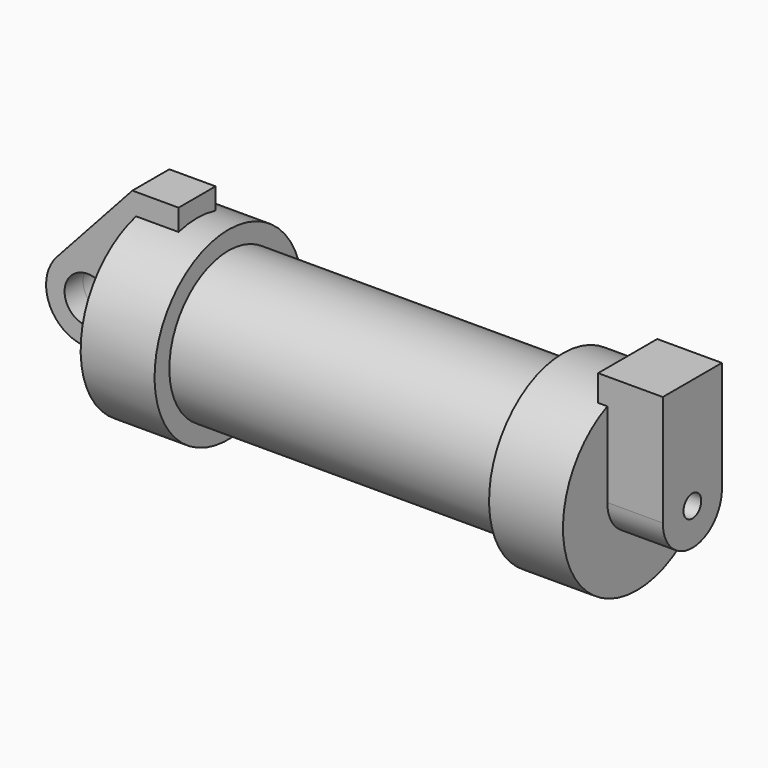
from build123d import *

# Parameters (mm, degrees)
F0_W          = 5.842
F0_H          = 12.7
F0_R          = 3.175
F2_DEPTH      = 3.175
F3_R          = 1.524
F4_DEPTH      = 7.62
F4_DEPTH_BACK = 1.27
F5_DEPTH      = 56.134


with BuildPart() as f1:
    # F0 (on Front) → F1 (revolve)
    with BuildSketch(Plane.XZ):
        Polygon((5.842, 12.7), (5.842, 0), (66.294, 0), (66.294, 12.7), (56.134, 12.7), (56.134, 10.16), (10.16, 10.16), (10.16, 12.7), align=None)
        with Locations((2.921, 6.35)):
            Rectangle(F0_W, F0_H)
    revolve(axis=Axis((33.147, 0, 0), (-1, 0, 0)))

    # F3 (on face) → F4 (join, two sides)
    with BuildSketch(Plane.YZ.offset(66.294)) as f4_sk:
        with BuildLine():
            ThreePointArc((-5.08, 0), (0, 5.08), (5.08, 0))
            Line((5.08, 0), (5.08, 11.6397422652))
            ThreePointArc((5.08, 11.6397422652), (0, 12.7), (-5.08, 11.6397422652))
            Line((-5.08, 11.6397422652), (-5.08, 0))
        make_face()
        with BuildLine():
            ThreePointArc((-5.08, 11.6397422652), (0, 12.7), (5.08, 11.6397422652))
            Line((5.08, 11.6397422652), (5.08, 15.24))
            Line((5.08, 15.24), (-5.08, 15.24))
            Line((-5.08, 15.24), (-5.08, 11.6397422652))
        make_face()
        with BuildLine():
            ThreePointArc((-5.08, 0), (0, -5.08), (5.08, 0))
            ThreePointArc((5.08, 0), (0, 5.08), (-5.08, 0))
        make_face()
        Circle(F3_R, mode=Mode.SUBTRACT)
    extrude(amount=F4_DEPTH)
    extrude(f4_sk.sketch, amount=-F4_DEPTH_BACK)

    # F5 (cut, through all): a face of the model
    f5_faces = [f1.faces().sort_by_distance(p)[0] for p in [
        (66.294, 0, 0),
    ]]
    extrude(f5_faces, amount=-F5_DEPTH, mode=Mode.SUBTRACT)


with BuildPart() as f2:
    # F0 (on Front) → F2 (new body, symmetric)
    with BuildSketch(Plane.XZ):
        with Locations((2.921, 6.35)):
            Rectangle(F0_W, F0_H)
        with BuildLine():
            ThreePointArc((-8.1826630726, -5.5069827884), (-3.1957909266, -4.5493385486), (-0.9398, 0))
            ThreePointArc((-0.9398, 0), (-4.5919612295, 5.3297205562), (-10.8806298187, 3.8475430269))
            ThreePointArc((-10.8806298187, 3.8475430269), (-12.1459778134, -1.5837270034), (-8.1826630726, -5.5069827884))
        make_face()
        with Locations((-6.6548, 0)):
            Circle(F0_R, mode=Mode.SUBTRACT)
        with BuildLine():
            Line((-0.9398, 0), (0, 0))
            Line((0, 0), (0, 12.7))
            Line((0, 12.7), (5.842, 12.7))
            Line((5.842, 12.7), (5.842, 15.24))
            Line((5.842, 15.24), (-0.508, 15.24))
            Line((-0.508, 15.24), (-10.8806298187, 3.8475430269))
            ThreePointArc((-10.8806298187, 3.8475430269), (-4.5919612295, 5.3297205562), (-0.9398, 0))
        make_face()
    extrude(amount=F2_DEPTH, both=True)


solid = Compound([f1.part, f2.part])
